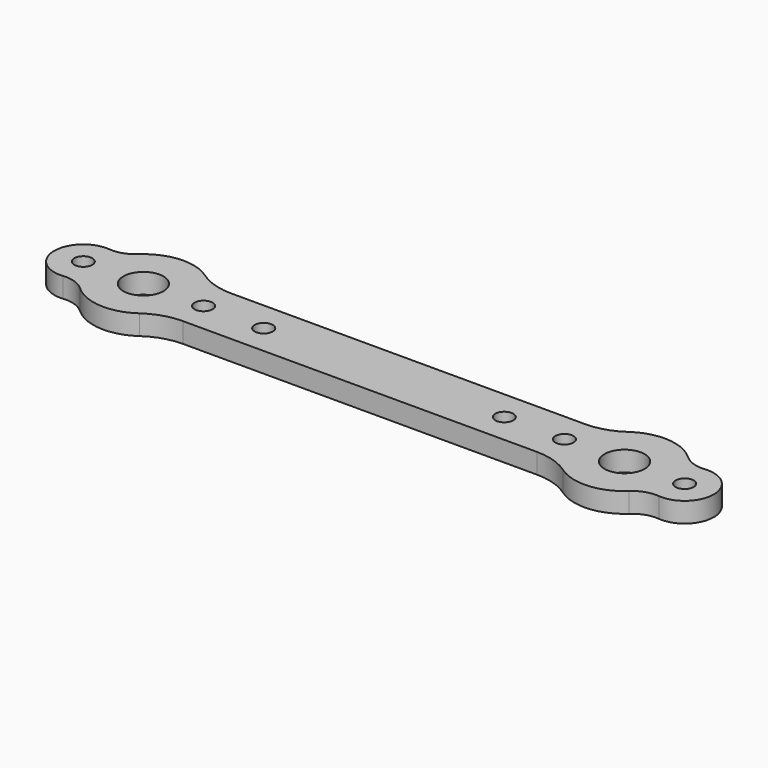
from build123d import *

# Parameters (mm, degrees)
F0_R     = 0.9
F0_R_2   = 2
F1_DEPTH = 2


with BuildPart() as f1:
    # F0 (on Top) → F1 (new body)
    with BuildSketch(Plane.XY):
        with BuildLine():
            Line((-17.6754446797, -3), (0, -3))
            Line((0, -3), (17.6754446797, -3))
            ThreePointArc((17.6754446797, -3), (19.4845127471, -3.2792244645), (21.1252021271, -4.0909090909))
            ThreePointArc((21.1252021271, -4.0909090909), (24.3345748945, -4.9887934052), (27.3953125, -3.6704022978))
            ThreePointArc((27.3953125, -3.6704022978), (28.474361287, -3.0297630587), (29.721059322, -2.8865536715))
            ThreePointArc((29.721059322, -2.8865536715), (32.9, 0), (29.721059322, 2.8865536715))
            ThreePointArc((29.721059322, 2.8865536715), (28.474361287, 3.0297630587), (27.3953125, 3.6704022978))
            ThreePointArc((27.3953125, 3.6704022978), (24.3345748945, 4.9887934052), (21.1252021271, 4.0909090909))
            ThreePointArc((21.1252021271, 4.0909090909), (19.4845127471, 3.2792244645), (17.6754446797, 3))
            Line((17.6754446797, 3), (0, 3))
            Line((0, 3), (-17.6754446797, 3))
            ThreePointArc((-17.6754446797, 3), (-19.4845127471, 3.2792244645), (-21.1252021271, 4.0909090909))
            ThreePointArc((-21.1252021271, 4.0909090909), (-24.3345748945, 4.9887934052), (-27.3953125, 3.6704022978))
            ThreePointArc((-27.3953125, 3.6704022978), (-28.474361287, 3.0297630587), (-29.721059322, 2.8865536715))
            ThreePointArc((-29.721059322, 2.8865536715), (-32.9, 0), (-29.721059322, -2.8865536715))
            ThreePointArc((-29.721059322, -2.8865536715), (-28.474361287, -3.0297630587), (-27.3953125, -3.6704022978))
            ThreePointArc((-27.3953125, -3.6704022978), (-24.3345748945, -4.9887934052), (-21.1252021271, -4.0909090909))
            ThreePointArc((-21.1252021271, -4.0909090909), (-19.4845127471, -3.2792244645), (-17.6754446797, -3))
        make_face()
        with Locations((-30, 0)):
            Circle(F0_R, mode=Mode.SUBTRACT)
        with Locations((-24, 0)):
            Circle(F0_R_2, mode=Mode.SUBTRACT)
        with Locations((-18, 0)):
            Circle(F0_R, mode=Mode.SUBTRACT)
        with Locations((-12, 0)):
            Circle(F0_R, mode=Mode.SUBTRACT)
        with Locations((12, 0)):
            Circle(F0_R, mode=Mode.SUBTRACT)
        with Locations((18, 0)):
            Circle(F0_R, mode=Mode.SUBTRACT)
        with Locations((24, 0)):
            Circle(F0_R_2, mode=Mode.SUBTRACT)
        with Locations((30, 0)):
            Circle(F0_R, mode=Mode.SUBTRACT)
    extrude(amount=F1_DEPTH)


solid = f1.part
